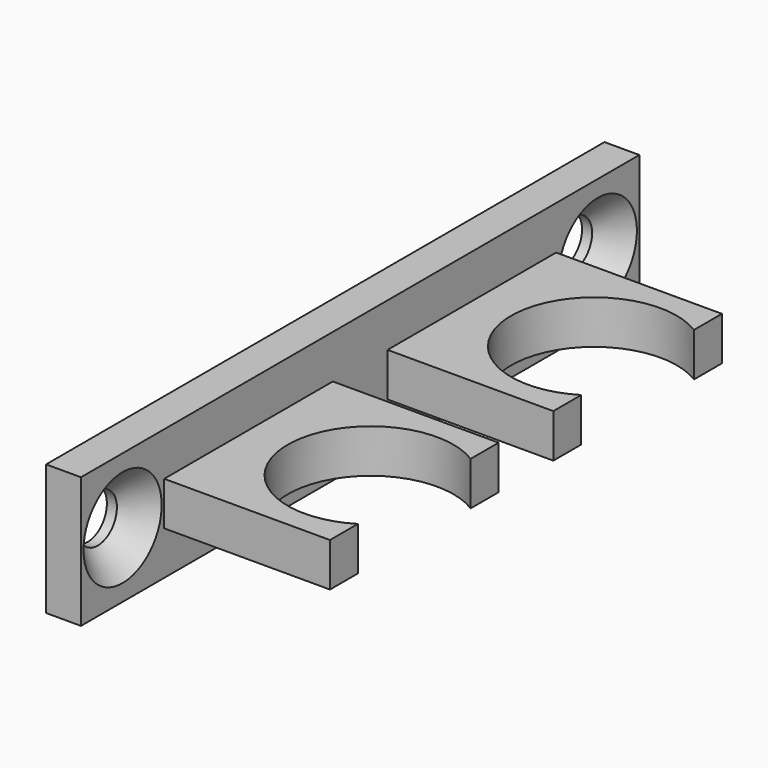
from build123d import *

# Parameters (mm, degrees)
F1_DEPTH       = 7.5
F2_DEPTH       = 2.5
F4_D           = 5.5
F4_DEPTH       = 8
F4_CSINK_D     = 11.2
F4_CSINK_ANGLE = 90
F4_TIP         = 1.6523667023


with BuildPart() as f1:
    # F0 (on Top) → F1 (new body, symmetric)
    with BuildSketch(Plane.XY):
        Polygon((2, 28.0777472107), (2, 40), (-2, 40), (-2, -40), (2, -40), (2, -28.0777472107), (2, -3.9222527893), (2, 3.9222527893), align=None)
    extrude(amount=F1_DEPTH, both=True)

    # F0 (on Top) → F2 (join, symmetric)
    with BuildSketch(Plane.XY):
        with BuildLine():
            Line((21, 28.0777472107), (2, 28.0777472107))
            Line((2, 28.0777472107), (2, 3.9222527893))
            Line((2, 3.9222527893), (21, 3.9222527893))
            Line((21, 3.9222527893), (21, 7.9222527893))
            ThreePointArc((21, 7.9222527893), (6.5, 16), (21, 24.0777472107))
            Line((21, 24.0777472107), (21, 28.0777472107))
        make_face()
        with BuildLine():
            Line((21, -3.9222527893), (2, -3.9222527893))
            Line((2, -3.9222527893), (2, -28.0777472107))
            Line((2, -28.0777472107), (21, -28.0777472107))
            Line((21, -28.0777472107), (21, -24.0777472107))
            ThreePointArc((21, -24.0777472107), (6.5, -16), (21, -7.9222527893))
            Line((21, -7.9222527893), (21, -3.9222527893))
        make_face()
    extrude(amount=F2_DEPTH, both=True)

    # F4
    with Locations(Plane.YZ.offset(2)):
        with Locations((-34.0387472107, 0), (34.0387472107, 0)):
            CounterSinkHole(F4_D / 2, F4_CSINK_D / 2, depth=F4_DEPTH, counter_sink_angle=F4_CSINK_ANGLE)
            with Locations((0, 0, -(F4_DEPTH + F4_TIP / 2))):  # 118° drill point
                Cone(0, F4_D / 2, F4_TIP, mode=Mode.SUBTRACT)


solid = f1.part
